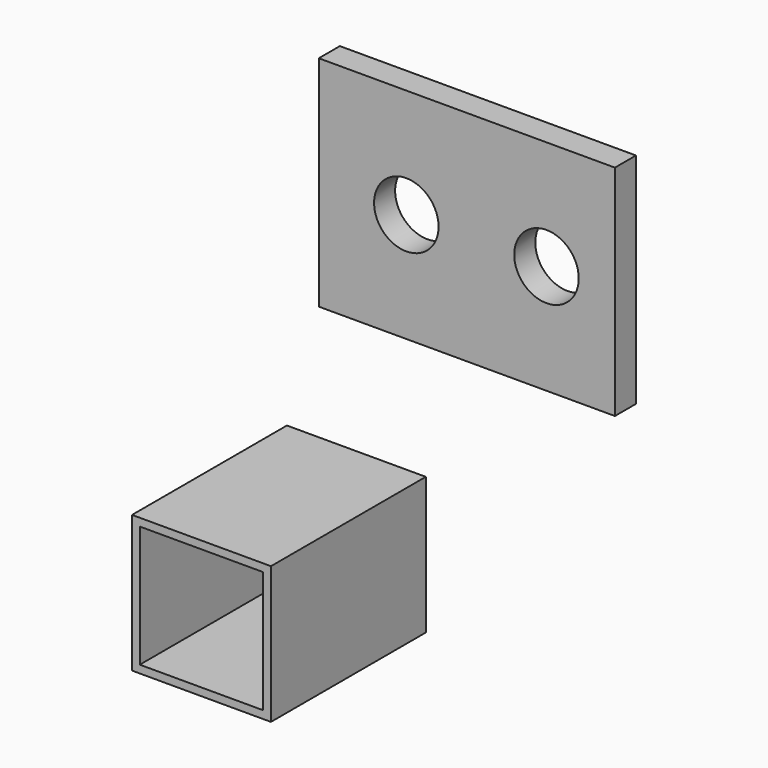
from build123d import *

# Parameters (mm, degrees)
F0_W     = 38.243354
F0_H     = 28.2434
F1_DEPTH = 3.4
F2_R     = 4.165193
F3_DEPTH = 25
F4_W     = 17.937131
F4_H     = 17.705821
F5_DEPTH = 25
F6_T     = -1


with BuildPart() as f1:
    # F0 (on Front) → F1 (new body)
    with BuildSketch(Plane.XZ):
        with Locations((-112.298593, 46.084043)):
            Rectangle(F0_W, F0_H)
    extrude(amount=F1_DEPTH)

    # F2 (on face) → F3 (cut)
    with BuildSketch(Plane.XZ.offset(3.4)):
        with Locations((-120.113924, 46.084043)):
            Circle(F2_R)
        with Locations((-102.012531, 46.084043)):
            Circle(F2_R)
    extrude(amount=-F3_DEPTH, mode=Mode.SUBTRACT)


with BuildPart() as f5:
    # F4 (on Front) → F5 (new body)
    with BuildSketch(Plane.XZ):
        with Locations((-129.289161, 5.990565)):
            Rectangle(F4_W, F4_H)
    extrude(amount=F5_DEPTH)

    # F6
    f6_openings = [f5.faces().sort_by_distance(p)[0] for p in [
        (-129.289161, -25, 5.990566),
    ]]
    offset(amount=F6_T, openings=f6_openings)


solid = Compound([f1.part, f5.part])
